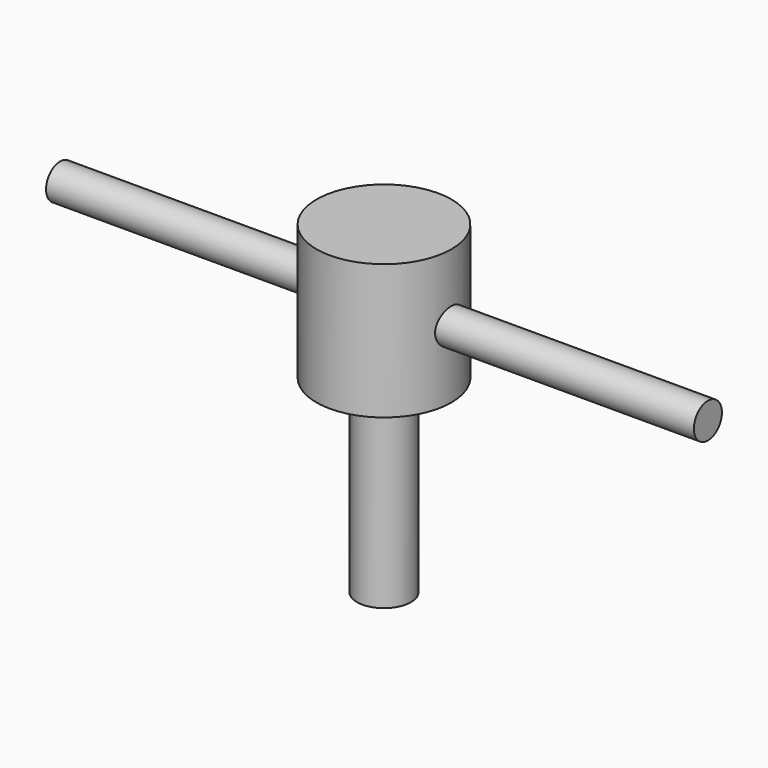
from build123d import *

# Parameters (mm, degrees)
F0_R     = 15.875
F1_DEPTH = 31.75
F2_R     = 6.35
F3_DEPTH = 76.2
F4_R     = 4.1275
F5_DEPTH = 76.2


with BuildPart() as f1:
    # F0 (on Top) → F1 (new body)
    with BuildSketch(Plane.XY):
        Circle(F0_R)
    extrude(amount=-F1_DEPTH)

    # F2 (on Top) → F3 (join)
    with BuildSketch(Plane.XY):
        Circle(F2_R)
    extrude(amount=-F3_DEPTH)

    # F4 (on Right) → F5 (join, symmetric)
    with BuildSketch(Plane.YZ):
        with Locations((0, -15.875)):
            Circle(F4_R)
    extrude(amount=F5_DEPTH, both=True)


solid = f1.part
